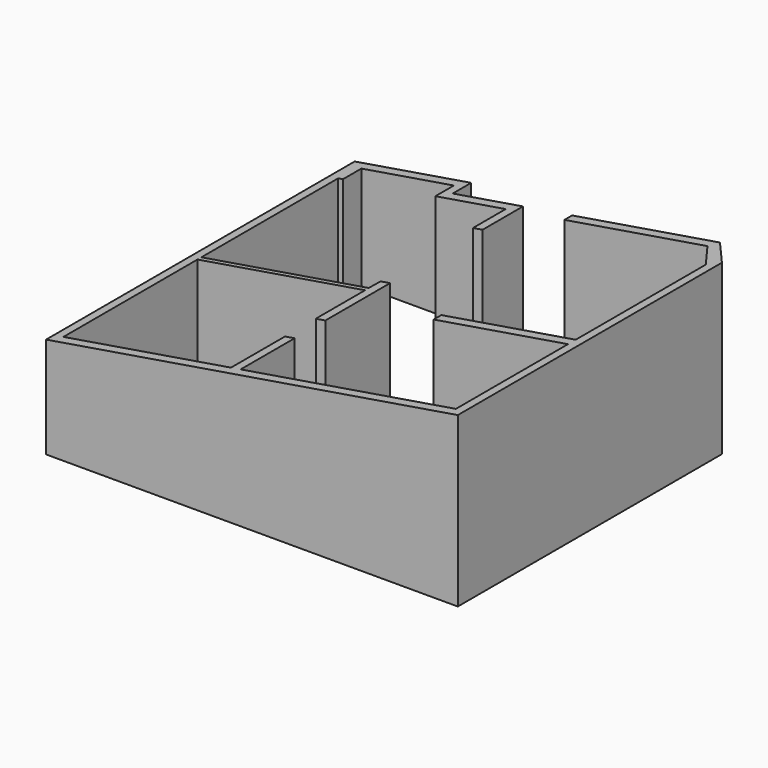
from build123d import *

# Parameters (mm, degrees)
F1_DEPTH = 35
F3_DEPTH = 90


with BuildPart() as f1:
    # F0 (on Top) → F1 (new body)
    with BuildSketch(Plane.XY):
        Polygon((-50.260506, 1.061057), (-50.260506, 36.561057), (-49.260506, 36.561057), (-49.260506, 41.361057), (-30.060506, 41.361057), (-30.060506, 36.561057), (-15.460506, 36.561057), (-15.460506, 28.061057), (-13.460506, 28.061057), (-13.460506, 38.561057), (-28.060506, 38.561057), (-28.060506, 43.361057), (-50.260506, 43.361057), (-52.260506, 43.361057), (-52.260506, -36.738943), (-13.460506, -36.738943), (33.239494, -36.738943), (33.239494, 31.816978), (27.439494, 38.561057), (-3.260506, 38.561057), (-3.260506, 36.561057), (26.439494, 36.561057), (31.239494, 30.135054), (31.239494, -3.638943), (3.339494, -3.638943), (3.339494, -5.638943), (31.239494, -5.638943), (31.239494, -34.738943), (-13.460506, -34.738943), (-13.460506, -20.738943), (-15.460506, -20.738943), (-15.460506, -34.738943), (-50.260506, -34.738943), (-50.260506, 0.061057), (-15.460506, 0.061057), (-15.460506, -12.738943), (-13.460506, -12.738943), (-13.460506, 4.061057), (-15.460506, 4.061057), (-15.487555, 1.061057), align=None)
    extrude(amount=F1_DEPTH)

    # F2 (on face) → F3 (cut)
    with BuildSketch(Plane.XZ.offset(36.738943)):
        Polygon((-52.260506, 61.379157), (-52.260506, 21), (33.239494, 35), (27.843312, 67.955256), align=None)
    extrude(amount=-F3_DEPTH, mode=Mode.SUBTRACT)


solid = f1.part
